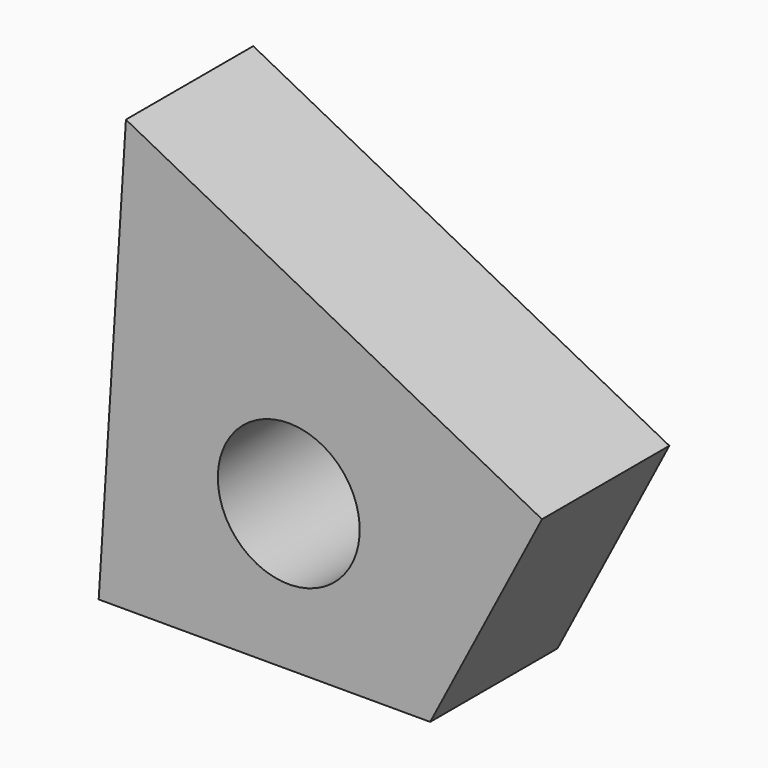
from build123d import *

# Parameters (mm, degrees)
F1_DEPTH = 50.8
F2_R     = 22.6441
F3_DEPTH = 127


with BuildPart() as f1:
    # F0 (on Front) → F1 (new body)
    with BuildSketch(Plane.XZ):
        Polygon((80.816835, 21.911218), (-51.975183, 91.024659), (-60.67035, -46.633508), (45.141785, -46.633508), align=None)
    extrude(amount=F1_DEPTH)

    # F2 (on face) → F3 (cut)
    with BuildSketch(Plane(origin=(0, 0, 0), x_dir=(-1, 0, 0), z_dir=(0, 1, 0))):
        Circle(F2_R)
    extrude(amount=-F3_DEPTH, mode=Mode.SUBTRACT)


solid = f1.part
